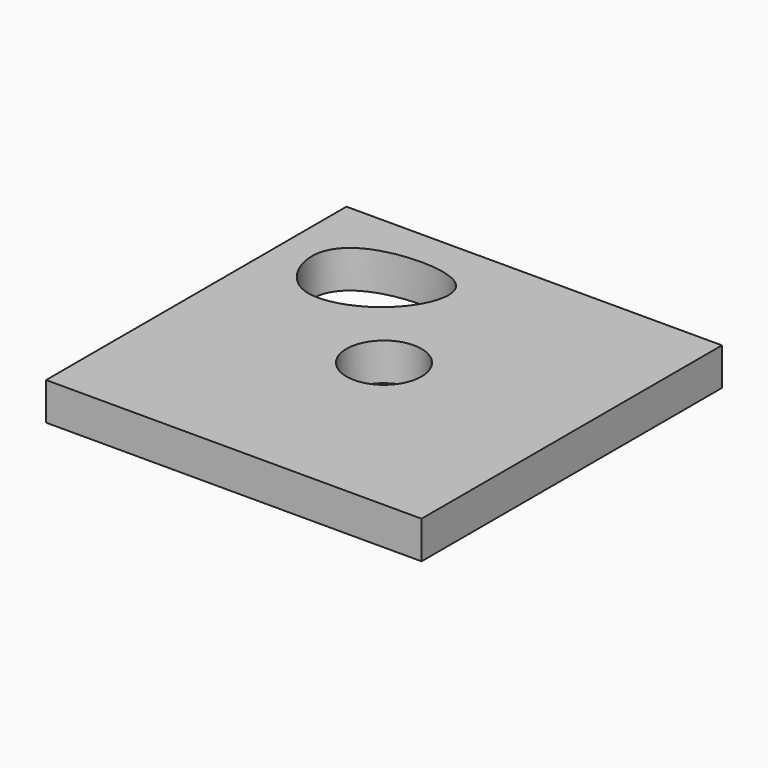
from build123d import *

# Parameters (mm, degrees)
F0_W     = 50
F0_H     = 50
F1_DEPTH = 5
F2_R     = 5
F3_DEPTH = 25
F5_DEPTH = 25


with BuildPart() as f1:
    # F0 (on Top) → F1 (new body)
    with BuildSketch(Plane.XY):
        Rectangle(F0_W, F0_H)
    extrude(amount=F1_DEPTH)

    # F2 (on face) → F3 (cut)
    with BuildSketch(Plane.XY.offset(5)):
        Circle(F2_R)
    extrude(amount=-F3_DEPTH, mode=Mode.SUBTRACT)

    # F4 (on face) → F5 (cut)
    with BuildSketch(Plane.XY.offset(5)):
        with BuildLine():
            add(Edge.make_bspline(
                [(-16.0939358175, 19.4073952734), (-12.4173646388, 20.576681651), (-2.1134920052, 20.3363583902), (-5.8241318664, 9.2256089441), (-17.5792885427, 4.957394915), (-22.4856509352, 14.9328212493), (-18.9737953325, 18.491492837), (-16.0939358175, 19.4073952734)],
                knots=[0, 0, 0, 0, 0.2259129236, 0.4146370942, 0.6325225982, 0.8230423264, 1, 1, 1, 1], degree=3))
        make_face()
    extrude(amount=-F5_DEPTH, mode=Mode.SUBTRACT)


solid = f1.part
